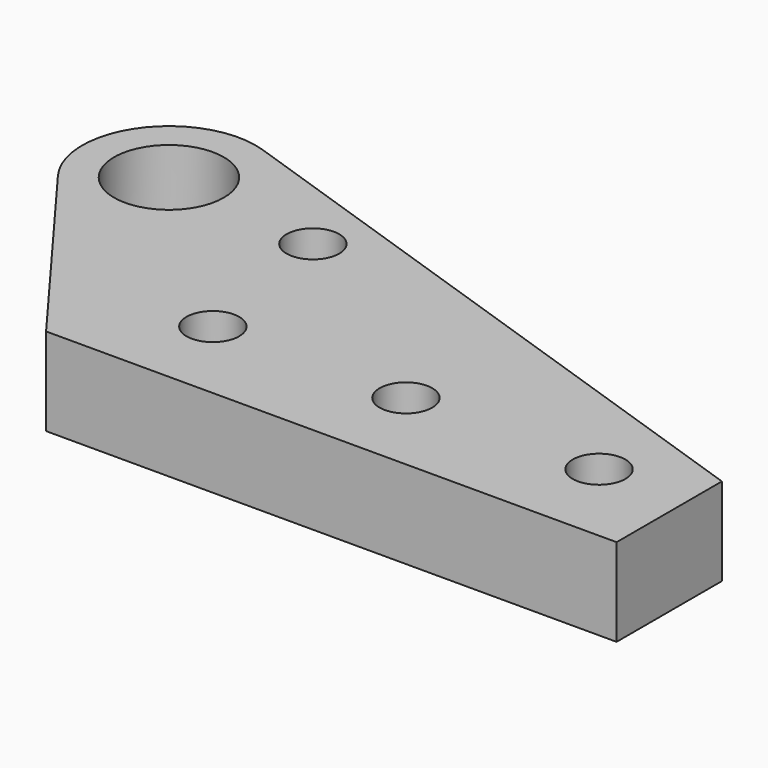
from build123d import *

# Parameters (mm, degrees)
F0_R     = 3
F0_R_2   = 6.25
F1_DEPTH = 10


with BuildPart() as f1:
    # F0 (on Top) → F1 (new body)
    with BuildSketch(Plane.XY):
        with BuildLine():
            Line((-65, 0), (0, 0))
            Line((0, 0), (0, 15))
            Line((0, 15), (-71.824511, 39.362027))
            ThreePointArc((-71.824511, 39.362027), (-82.993601, 35.816668), (-82.931217, 24.098551))
            Line((-82.931217, 24.098551), (-65, 0))
        make_face()
        with Locations((-54, 10)):
            Circle(F0_R, mode=Mode.SUBTRACT)
        with Locations((-32, 10)):
            Circle(F0_R, mode=Mode.SUBTRACT)
        with Locations((-10, 10)):
            Circle(F0_R, mode=Mode.SUBTRACT)
        with Locations((-57, 28)):
            Circle(F0_R, mode=Mode.SUBTRACT)
        with Locations((-75, 30)):
            Circle(F0_R_2, mode=Mode.SUBTRACT)
    extrude(amount=F1_DEPTH)


solid = f1.part
